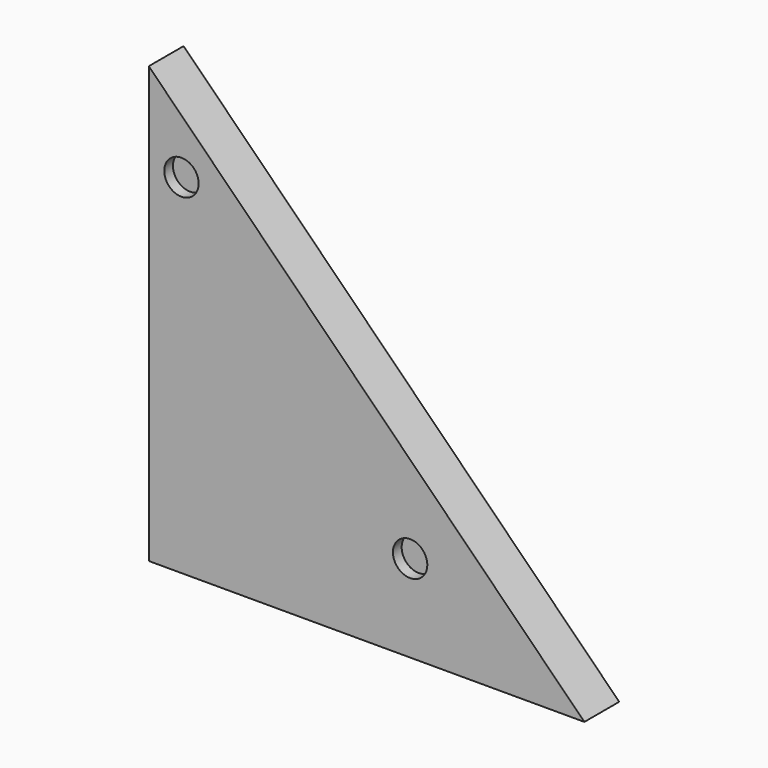
from build123d import *

# Parameters (mm, degrees)
F1_DEPTH = 25.4
F2_R     = 10.0203
F3_DEPTH = 6.35


with BuildPart() as f1:
    # F0 (on Front) → F1 (new body)
    with BuildSketch(Plane.XZ):
        Polygon((212.763246, -168.505661), (-41.236754, 85.494339), (-41.236754, -168.505661), align=None)
    extrude(amount=F1_DEPTH)

    # F2 (on face) → F3 (cut)
    with BuildSketch(Plane.XZ.offset(25.4)):
        with Locations((-22.186754, 34.694339)):
            Circle(F2_R)
        with Locations((111.163246, -117.705661)):
            Circle(F2_R)
    extrude(amount=-F3_DEPTH, mode=Mode.SUBTRACT)


solid = f1.part
